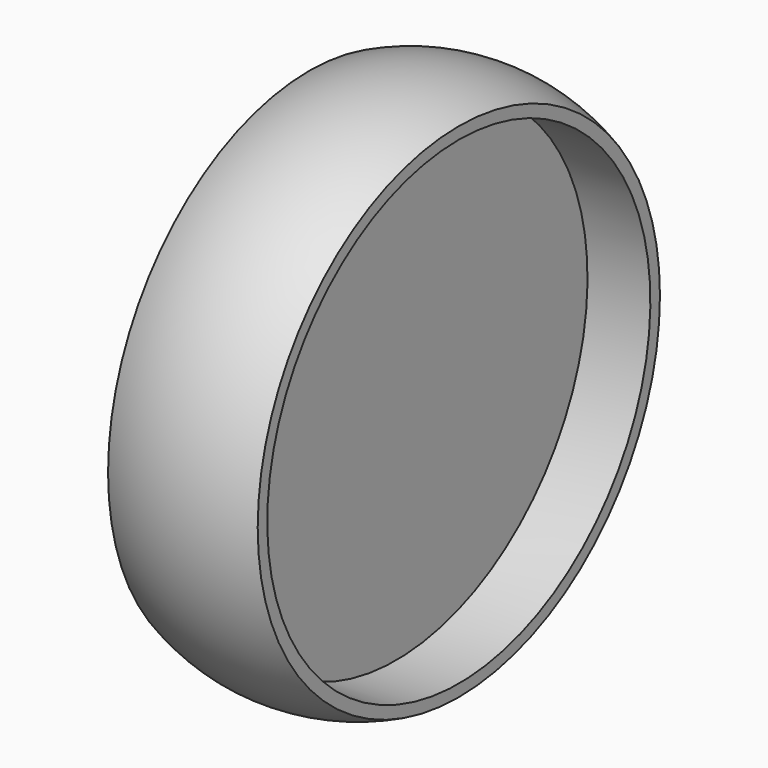
from build123d import *

# Parameters (mm, degrees)
POCKET_DEPTH = 8


with BuildPart() as part:
    # Sketch (on DatumPlane) → Revolution (revolve)
    with BuildSketch(Plane.XZ):
        with BuildLine():
            Line((0, 0), (0, 4))
            Line((0, 4), (11, 4))
            Line((11, 4), (11, 40))
            Line((11, 40), (0.5, 40))
            Line((0.5, 40), (0.5, 42))
            ThreePointArc((25.5, 42), (13, 44.72822), (0.5, 42))
            Line((25.5, 40), (25.5, 42))
            Line((15, 40), (25.5, 40))
            Line((15, 0), (15, 40))
            Line((0, 0), (15, 0))
        make_face()
    revolve(axis=Axis((0, 0, 0), (1, 0, 0)))

    # Sketch001 (on DatumPlane) → Pocket (cut)
    with BuildSketch(Plane.YZ):
        with BuildLine():
            ThreePointArc((1.322876, -1.5), (0, 2), (-1.322876, -1.5))
            Line((-1.322876, -1.5), (1.322876, -1.5))
        make_face()
    extrude(amount=POCKET_DEPTH, mode=Mode.SUBTRACT)


solid = part.part
